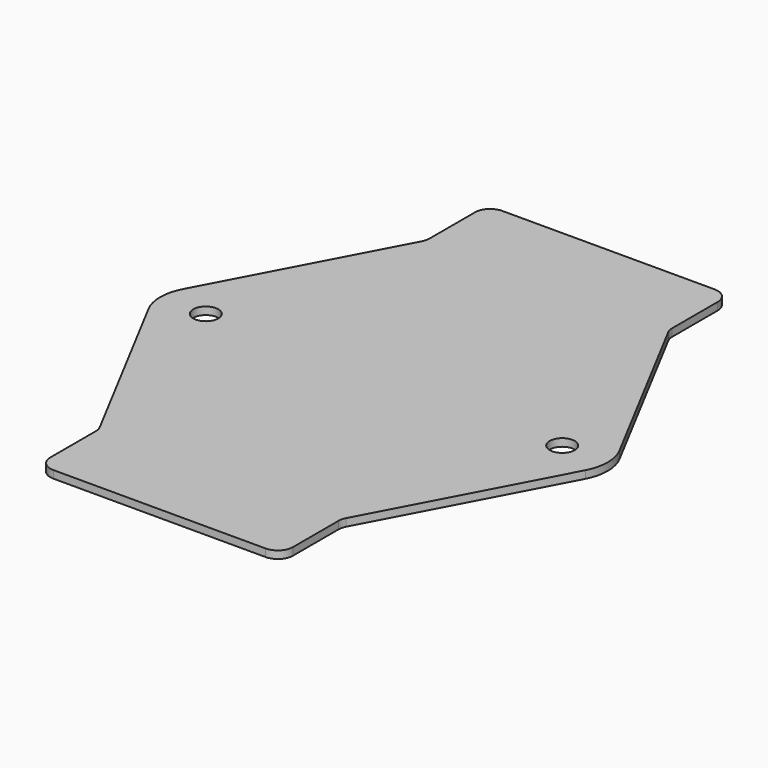
from build123d import *

# Parameters (mm, degrees)
F0_R     = 1.65
F1_DEPTH = 1


with BuildPart() as f1:
    # F0 (on Top) → F1 (new body)
    with BuildSketch(Plane.XY):
        with BuildLine():
            Line((0, 74), (0, 0))
            Line((0, 0), (14, 0))
            ThreePointArc((14, 0), (15.414214, 0.585786), (16, 2))
            Line((16, 2), (16, 9.503425))
            ThreePointArc((16, 9.503425), (16.058935, 9.985367), (16.232268, 10.438906))
            Line((16.232268, 10.438906), (28.803195, 34.193557))
            ThreePointArc((28.803195, 34.193557), (29.5, 37), (28.803195, 39.806443))
            Line((28.803195, 39.806443), (16.232268, 63.561094))
            ThreePointArc((16.232268, 63.561094), (16.058935, 64.014633), (16, 64.496575))
            Line((16, 64.496575), (16, 72))
            ThreePointArc((16, 72), (15.414214, 73.414214), (14, 74))
            Line((14, 74), (0, 74))
        make_face()
        with Locations((23.5, 37)):
            Circle(F0_R, mode=Mode.SUBTRACT)
        with BuildLine():
            Line((-14, 0), (0, 0))
            Line((0, 0), (0, 74))
            Line((0, 74), (-14, 74))
            ThreePointArc((-14, 74), (-15.414214, 73.414214), (-16, 72))
            Line((-16, 72), (-16, 64.496575))
            ThreePointArc((-16, 64.496575), (-16.058935, 64.014633), (-16.232268, 63.561094))
            Line((-16.232268, 63.561094), (-28.803195, 39.806443))
            ThreePointArc((-28.803195, 39.806443), (-29.5, 37), (-28.803195, 34.193557))
            Line((-28.803195, 34.193557), (-16.232268, 10.438906))
            ThreePointArc((-16.232268, 10.438906), (-16.058935, 9.985367), (-16, 9.503425))
            Line((-16, 9.503425), (-16, 2))
            ThreePointArc((-16, 2), (-15.414214, 0.585786), (-14, 0))
        make_face()
        with Locations((-23.5, 37)):
            Circle(F0_R, mode=Mode.SUBTRACT)
    extrude(amount=F1_DEPTH)


solid = f1.part
